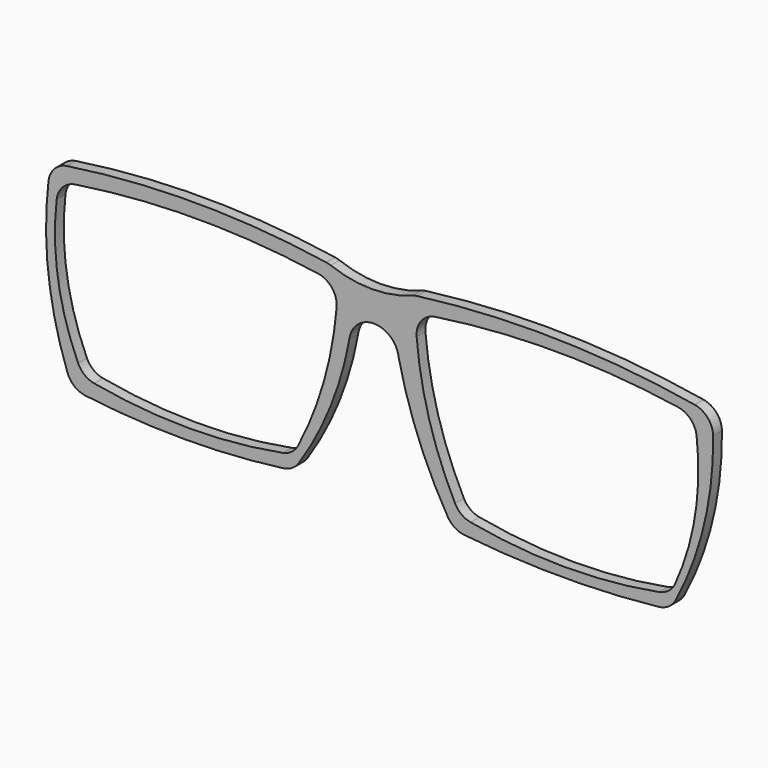
from build123d import *

# Parameters (mm, degrees)
F1_DEPTH = 2.54
F2_R     = 5.08
F3_R     = 5.08


with BuildPart() as f1:
    # F0 (on Front) → F1 (new body)
    with BuildSketch(Plane.XZ):
        with BuildLine():
            ThreePointArc((8.763001, 3.52425), (-1.143, 1.618571), (-11.049001, 3.52425))
            ThreePointArc((-11.049001, 3.52425), (-43.068301, 5.904157), (-75.057001, 3.14325))
            ThreePointArc((-75.057001, 3.14325), (-75.663294, -19.300237), (-70.104002, -41.052754))
            ThreePointArc((-70.104002, -41.052754), (-44.672251, -42.87997), (-19.240501, -41.052754))
            ThreePointArc((-19.240501, -41.052754), (-11.072844, -26.363162), (-6.286501, -10.251501))
            ThreePointArc((-6.286501, -10.251501), (-0.603603, -5.223828), (5.079296, -10.251501))
            ThreePointArc((5.079296, -10.251501), (10.051911, -26.204362), (17.7165, -41.052754))
            ThreePointArc((17.7165, -41.052754), (42.672003, -42.538429), (67.627506, -41.052754))
            ThreePointArc((67.627506, -41.052754), (75.6485, -20.437306), (77.342999, 1.618571))
            ThreePointArc((77.342999, 1.618571), (43.128941, 5.304299), (8.763001, 3.52425))
        make_face()
        with BuildLine():
            ThreePointArc((-73.152006, 0), (-41.052753, 2.762468), (-8.9535, 0))
            ThreePointArc((-8.9535, 0), (-11.824266, -19.525403), (-19.240501, -37.814255))
            ThreePointArc((-19.240501, -37.814255), (-43.434003, -40.309043), (-67.627506, -37.814255))
            ThreePointArc((-67.627506, -37.814255), (-73.492395, -19.36041), (-73.152006, 0))
        make_face(mode=Mode.SUBTRACT)
        with BuildLine():
            ThreePointArc((19.240501, -37.814255), (11.824266, -19.525403), (8.9535, 0))
            ThreePointArc((8.9535, 0), (41.052753, 2.762468), (73.152006, 0))
            ThreePointArc((73.152006, 0), (73.492395, -19.36041), (67.627506, -37.814255))
            ThreePointArc((67.627506, -37.814255), (43.434003, -40.309043), (19.240501, -37.814255))
        make_face(mode=Mode.SUBTRACT)
    extrude(amount=F1_DEPTH)

    # F2
    f2_edges = [f1.edges().sort_by_distance(p)[0] for p in [
        (-75.057001, -1.27, 3.14325),
        (-70.104002, -1.27, -41.052754),
        (-19.240501, -1.27, -41.052754),
        (17.7165, -1.27, -41.052754),
        (67.627506, -1.27, -41.052754),
        (77.342999, -1.27, 1.618571),
        (-11.049001, -1.27, 3.52425),
        (8.763001, -1.27, 3.52425),
    ]]
    fillet(f2_edges, radius=F2_R)

    # F3
    f3_edges = [f1.edges().sort_by_distance(p)[0] for p in [
        (-73.152006, -1.27, 0),
        (-67.627506, -1.27, -37.814255),
        (-19.240501, -1.27, -37.814255),
        (-8.9535, -1.27, 0),
        (73.152006, -1.27, 0),
        (67.627506, -1.27, -37.814255),
        (19.240501, -1.27, -37.814255),
        (8.9535, -1.27, 0),
    ]]
    fillet(f3_edges, radius=F3_R)


solid = f1.part
